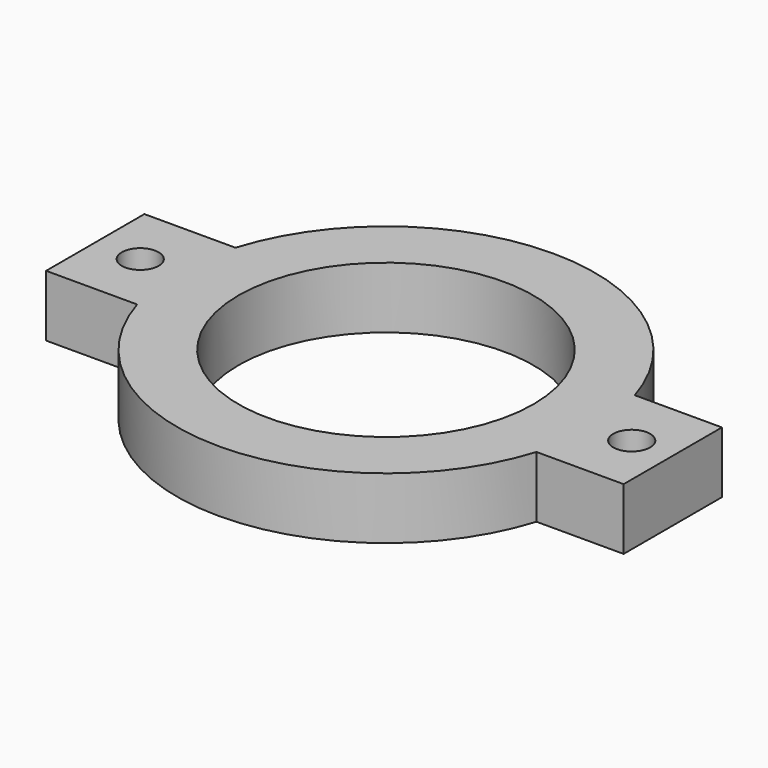
from build123d import *

# Parameters (mm, degrees)
CYLINDER098_R     = 1.5
CYLINDER098_DEPTH = 14
CYLINDER097_R     = 12
CYLINDER097_DEPTH = 33
CYLINDER099_R     = 1.5
CYLINDER099_DEPTH = 14
BOX017_W          = 47
BOX017_H          = 10
BOX017_DEPTH      = 5
CYLINDER096_R     = 17
CYLINDER096_DEPTH = 5


with BuildPart() as obj1:
    # Cylinder098 → Cylinder098 (new body)
    with BuildSketch(Plane(origin=(53.66, 148, -15), x_dir=(1, 0, 0), z_dir=(0, 0, 1))):
        Circle(CYLINDER098_R)
    extrude(amount=CYLINDER098_DEPTH)


with BuildPart() as obj2:
    # Cylinder097 → Cylinder097 (new body)
    with BuildSketch(Plane(origin=(73.66, 148, -10), x_dir=(1, 0, 0), z_dir=(0, 0, 1))):
        Circle(CYLINDER097_R)
    extrude(amount=CYLINDER097_DEPTH)


with BuildPart() as fusion041:
    # Cylinder099 → Cylinder099 (new body)
    with BuildSketch(Plane(origin=(93.66, 148, -14), x_dir=(1, 0, 0), z_dir=(0, 0, 1))):
        Circle(CYLINDER099_R)
    extrude(amount=CYLINDER099_DEPTH)

    # Fusion041: union obj1, obj2
    add(obj1.part)
    add(obj2.part)


with BuildPart() as obj3:
    # Box017 → Box017 (new body)
    with BuildSketch(Plane(origin=(50, 143, -10), x_dir=(1, 0, 0), z_dir=(0, 0, 1))):
        with Locations((23.5, 5)):
            Rectangle(BOX017_W, BOX017_H)
    extrude(amount=BOX017_DEPTH)


with BuildPart() as obj4:
    # Cylinder096 → Cylinder096 (new body)
    with BuildSketch(Plane(origin=(73.66, 148, -10), x_dir=(1, 0, 0), z_dir=(0, 0, 1))):
        Circle(CYLINDER096_R)
    extrude(amount=CYLINDER096_DEPTH)

    # Fusion042: union obj3
    add(obj3.part)

    # Cut011: cut Fusion041
    add(fusion041.part, mode=Mode.SUBTRACT)


with BuildPart() as obj4_1:
    # Cut011 placement: moved
    add(obj4.part.moved(Location((0, 0, -3))))


solid = obj4_1.part
